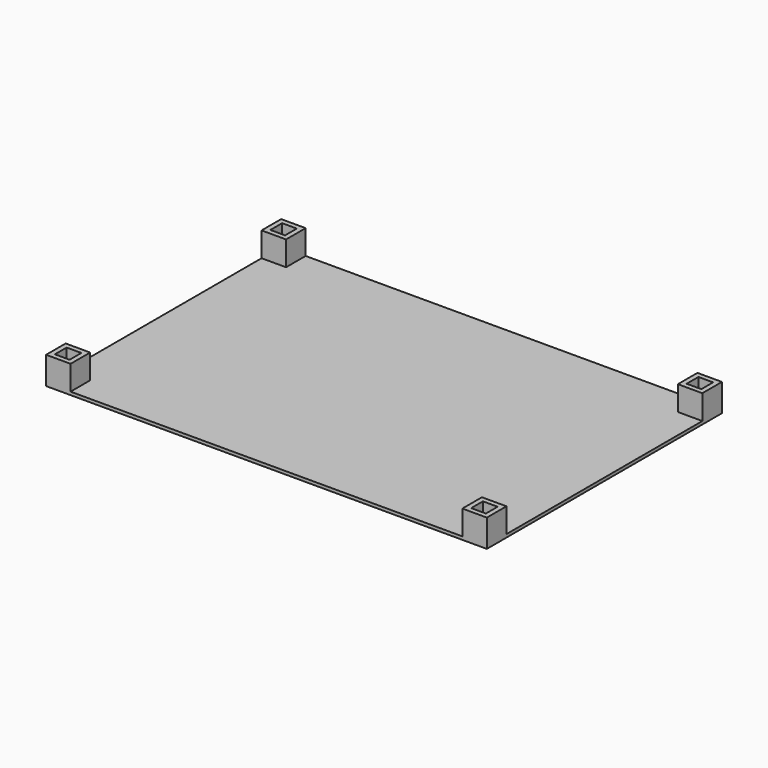
from build123d import *

# Parameters (mm, degrees)
F0_W     = 228.6
F0_H     = 152.4
F1_DEPTH = 1.6
F2_W     = 12.7
F2_H     = 12.7
F2_W_2   = 7.62
F2_H_2   = 7.62
F3_DEPTH = 12.7


with BuildPart() as f1:
    # F0 (on Top) → F1 (new body)
    with BuildSketch(Plane.XY):
        Rectangle(F0_W, F0_H)
    extrude(amount=F1_DEPTH)

    # F2 (on face) → F3 (join)
    with BuildSketch(Plane.XY.offset(1.6)):
        with Locations((-107.95, 69.85)):
            Rectangle(F2_W, F2_H)
        with Locations((-107.95, 69.85)):
            Rectangle(F2_W_2, F2_H_2, mode=Mode.SUBTRACT)
        with Locations((-107.95, -69.85)):
            Rectangle(F2_W, F2_H)
        with Locations((-107.95, -69.85)):
            Rectangle(F2_W_2, F2_H_2, mode=Mode.SUBTRACT)
        with Locations((107.95, -69.85)):
            Rectangle(F2_W, F2_H)
        with Locations((107.95, -69.85)):
            Rectangle(F2_W_2, F2_H_2, mode=Mode.SUBTRACT)
        with Locations((107.95, 69.85)):
            Rectangle(F2_W, F2_H)
        with Locations((107.95, 69.85)):
            Rectangle(F2_W_2, F2_H_2, mode=Mode.SUBTRACT)
    extrude(amount=F3_DEPTH)


solid = f1.part
